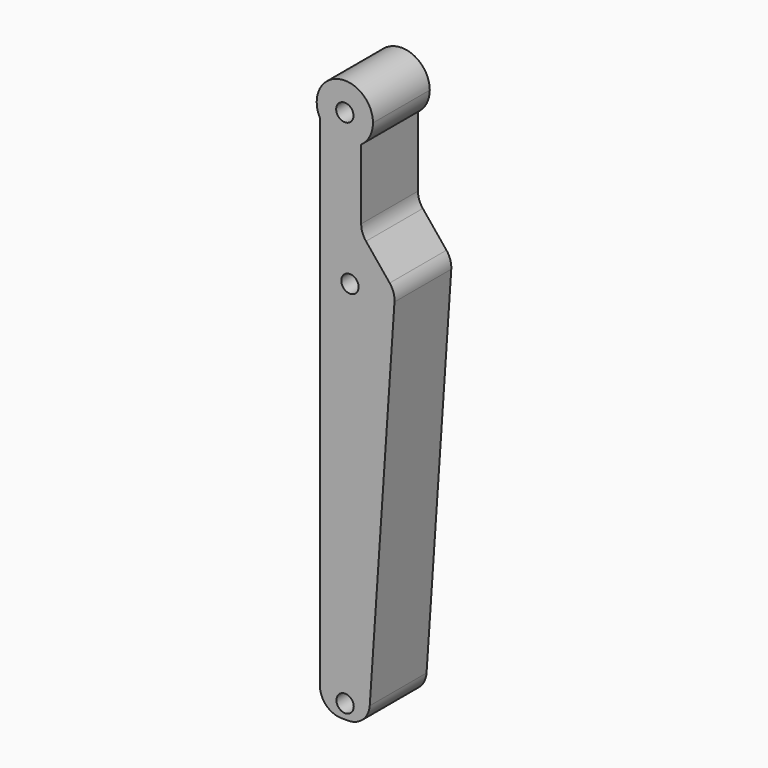
from build123d import *

# Parameters (mm, degrees)
F0_R     = 2
F1_DEPTH = 8.4
F2_DEPTH = 8


with BuildPart() as f1:
    # F0 (on Front) → F1 (new body)
    with BuildSketch(Plane.XZ):
        with BuildLine():
            ThreePointArc((-34.186626, 65.824993), (-39.136201, 72.137376), (-46.446989, 68.836341))
            Line((-46.446989, 68.836341), (-46.446989, 62.813645))
            ThreePointArc((-46.446989, 62.813645), (-42.199746, 59.503564), (-36.914065, 60.53181))
            ThreePointArc((-36.914065, 60.53181), (-34.908579, 62.847716), (-34.186626, 65.824993))
        make_face()
        with Locations((-40.686626, 65.824993)):
            Circle(F0_R, mode=Mode.SUBTRACT)
        with BuildLine():
            Line((-46.446989, 62.813645), (-46.446989, 68.836341))
            ThreePointArc((-46.446989, 68.836341), (-47.186626, 65.824993), (-46.446989, 62.813645))
        make_face()
        with BuildLine():
            ThreePointArc((-36.914065, 60.53181), (-42.199746, 59.503564), (-46.446989, 62.813645))
            Line((-46.446989, 62.813645), (-46.446989, -52.609081))
            ThreePointArc((-46.446989, -52.609081), (-44.982523, -56.144615), (-41.446989, -57.609081))
            Line((-41.446989, -57.609081), (-39.918409, -57.609081))
            ThreePointArc((-39.918409, -57.609081), (-36.504962, -56.262624), (-34.929938, -52.948432))
            Line((-34.929938, -52.948432), (-29.218151, 31.014852))
            ThreePointArc((-29.218151, 31.014852), (-29.441331, 32.868139), (-30.328693, 34.510415))
            Line((-30.328693, 34.510415), (-35.791994, 41.222987))
            ThreePointArc((-35.791994, 41.222987), (-36.625204, 42.704332), (-36.914065, 44.379198))
            Line((-36.914065, 44.379198), (-36.914065, 60.53181))
        make_face()
        with Locations((-40.622301, -54.330599)):
            Circle(F0_R, mode=Mode.SUBTRACT)
        with Locations((-39.501668, 31.354204)):
            Circle(F0_R, mode=Mode.SUBTRACT)
    extrude(amount=-F1_DEPTH)

    # F0 (on Front) → F2 (join)
    with BuildSketch(Plane.XZ):
        with BuildLine():
            ThreePointArc((-34.186626, 65.824993), (-39.136201, 72.137376), (-46.446989, 68.836341))
            Line((-46.446989, 68.836341), (-46.446989, 62.813645))
            ThreePointArc((-46.446989, 62.813645), (-42.199746, 59.503564), (-36.914065, 60.53181))
            ThreePointArc((-36.914065, 60.53181), (-34.908579, 62.847716), (-34.186626, 65.824993))
        make_face()
        with Locations((-40.686626, 65.824993)):
            Circle(F0_R, mode=Mode.SUBTRACT)
        with BuildLine():
            Line((-46.446989, 62.813645), (-46.446989, 68.836341))
            ThreePointArc((-46.446989, 68.836341), (-47.186626, 65.824993), (-46.446989, 62.813645))
        make_face()
        with BuildLine():
            ThreePointArc((-36.914065, 60.53181), (-42.199746, 59.503564), (-46.446989, 62.813645))
            Line((-46.446989, 62.813645), (-46.446989, -52.609081))
            ThreePointArc((-46.446989, -52.609081), (-44.982523, -56.144615), (-41.446989, -57.609081))
            Line((-41.446989, -57.609081), (-39.918409, -57.609081))
            ThreePointArc((-39.918409, -57.609081), (-36.504962, -56.262624), (-34.929938, -52.948432))
            Line((-34.929938, -52.948432), (-29.218151, 31.014852))
            ThreePointArc((-29.218151, 31.014852), (-29.441331, 32.868139), (-30.328693, 34.510415))
            Line((-30.328693, 34.510415), (-35.791994, 41.222987))
            ThreePointArc((-35.791994, 41.222987), (-36.625204, 42.704332), (-36.914065, 44.379198))
            Line((-36.914065, 44.379198), (-36.914065, 60.53181))
        make_face()
        with Locations((-40.622301, -54.330599)):
            Circle(F0_R, mode=Mode.SUBTRACT)
        with Locations((-39.501668, 31.354204)):
            Circle(F0_R, mode=Mode.SUBTRACT)
    extrude(amount=F2_DEPTH)


solid = f1.part
